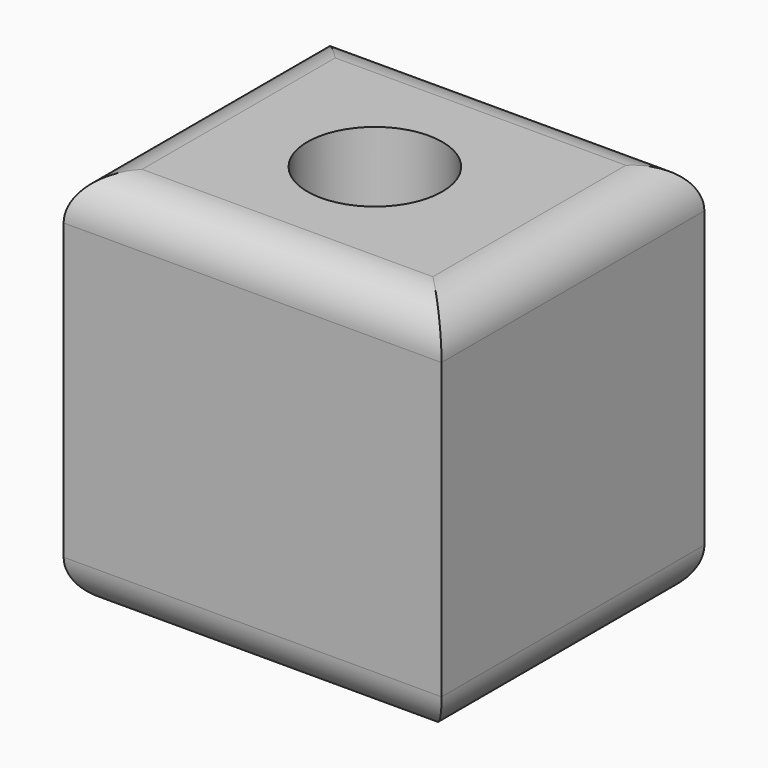
from build123d import *

# Parameters (mm, degrees)
F0_W     = 44.034278
F0_H     = 38.278166
F0_R     = 7.855569
F1_DEPTH = 44.45
F2_R     = 5.08
F3_R     = 5.08


with BuildPart() as f1:
    # F0 (on Top) → F1 (new body)
    with BuildSketch(Plane.XY):
        with Locations((0.719513, 0.431709)):
            Rectangle(F0_W, F0_H)
        Circle(F0_R, mode=Mode.SUBTRACT)
    extrude(amount=F1_DEPTH)

    # F2
    f2_edges = [f1.edges().sort_by_distance(p)[0] for p in [
        (0.719513, -18.707374, 44.45),
        (22.736652, 0.431709, 44.45),
        (0.719513, 19.570792, 44.45),
        (-21.297626, 0.431709, 44.45),
    ]]
    fillet(f2_edges, radius=F2_R)

    # F3
    f3_edges = [f1.edges().sort_by_distance(p)[0] for p in [
        (0.719513, 19.570792, 0),
        (-21.297626, 0.431709, 0),
        (0.719513, -18.707374, 0),
        (22.736652, 0.431709, 0),
    ]]
    fillet(f3_edges, radius=F3_R)


solid = f1.part
